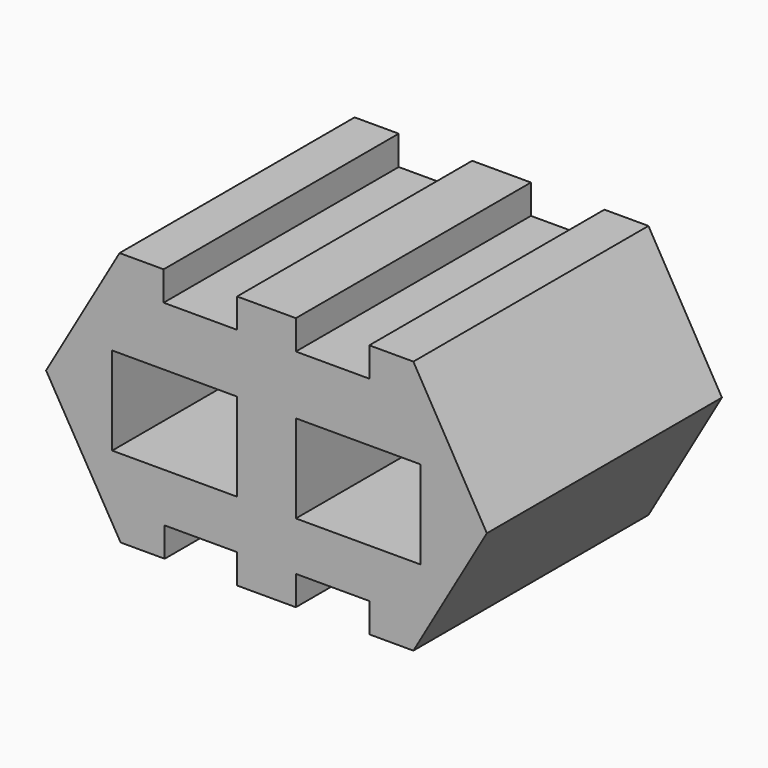
from build123d import *

# Parameters (mm, degrees)
F0_W     = 53.975
F0_H     = 38.1
F1_DEPTH = 127


with BuildPart() as f1:
    # F0 (on Front) → F1 (new body)
    with BuildSketch(Plane.XZ):
        Polygon((0, -12.7), (0, 0), (-25.4, 0), (-25.4, -12.7), (-57.15, -12.7), (-57.15, 0), (-76.2, 0), (-107.95, -54.992613), (-75.735204, -109.985226), (-56.685204, -109.985226), (-56.685204, -97.285226), (-25.4, -97.285226), (-25.4, -109.985226), (0, -109.985226), (0, -97.285226), (31.75, -97.285226), (31.75, -109.985226), (50.8, -109.985226), (82.55, -54.992613), (50.8, 0), (31.75, 0), (31.75, -12.7), align=None)
        with Locations((-52.3875, -57.15)):
            Rectangle(F0_W, F0_H, mode=Mode.SUBTRACT)
        with Locations((26.9875, -57.15)):
            Rectangle(F0_W, F0_H, mode=Mode.SUBTRACT)
    extrude(amount=F1_DEPTH)


solid = f1.part
